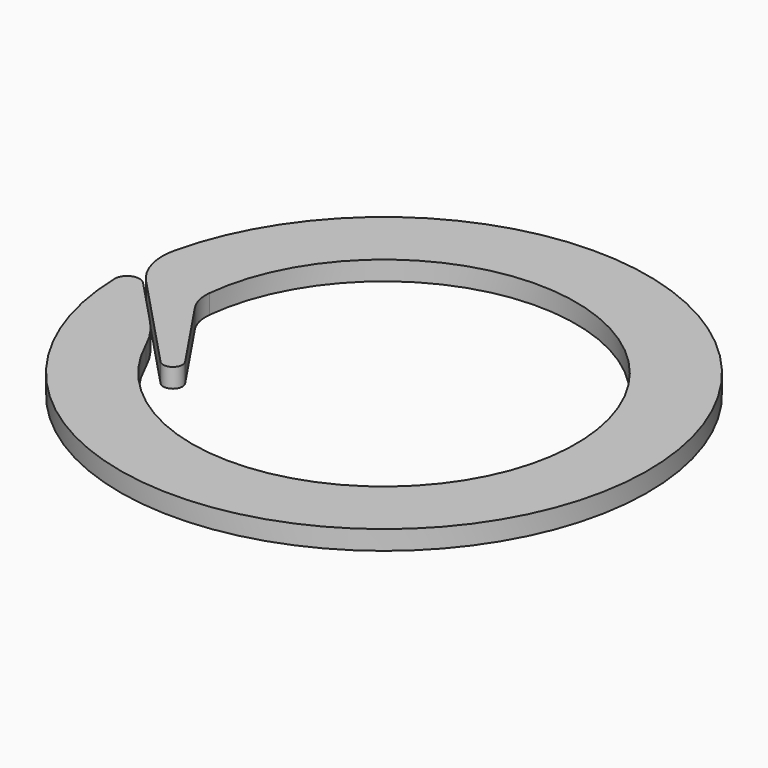
from build123d import *

# Parameters (mm, degrees)
PAD_DEPTH = 2


with BuildPart() as part:
    # Sketch → Pad (new body)
    with BuildSketch(Plane.XY):
        with BuildLine():
            ThreePointArc((-27.489858, -0.746794), (27.360019, -2.771163), (-26.781824, 6.243707))
            ThreePointArc((-26.781824, 6.243707), (-26.728683, 3.219003), (-25.249794, 0.579962))
            Line((-25.249794, 0.579962), (-15.435404, -9.800129))
            ThreePointArc((-15.435404, -9.800129), (-14.079498, -9.894335), (-13.873578, -8.55085))
            Line((-13.873578, -8.55085), (-19.209537, -0.614914))
            ThreePointArc((-19.887258, 2.120607), (-19.789586, 0.693092), (-19.209537, -0.614914))
            ThreePointArc((-18.249364, -8.182952), (19.751995, 3.139854), (-19.887258, 2.120607))
            ThreePointArc((-18.249364, -8.182952), (-19.207091, -6.452486), (-20.440588, -4.906446))
            Line((-20.440588, -4.906446), (-25.249794, 0.179962))
            ThreePointArc((-25.249794, 0.179962), (-26.688775, 0.487518), (-27.489858, -0.746794))
        make_face()
    extrude(amount=PAD_DEPTH)


solid = part.part
